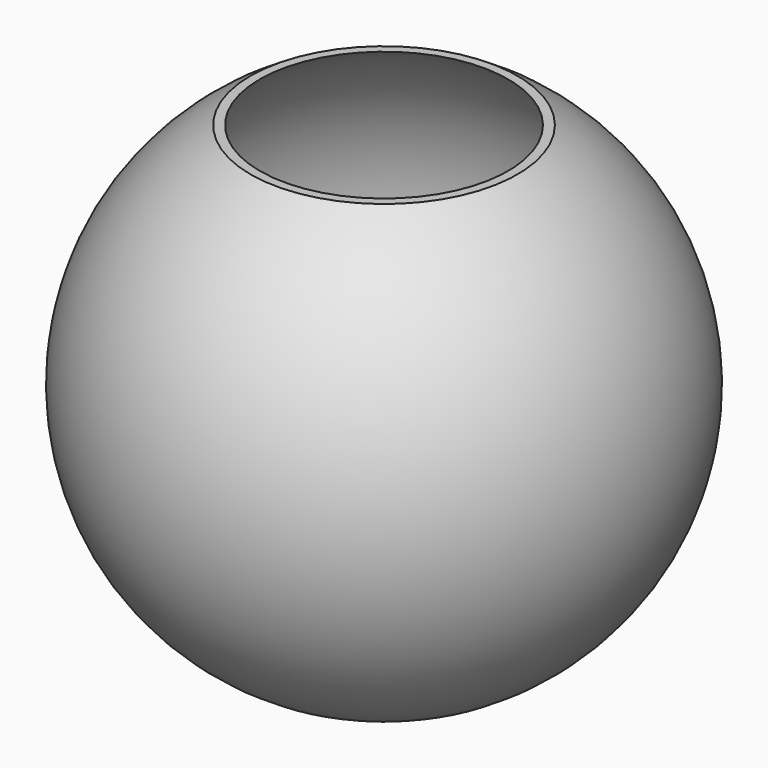
from build123d import *

# Parameters (mm, degrees)
F2_T          = -1.2
F3_R          = 17
F4_DEPTH      = 25
F4_DEPTH_BACK = 25


with BuildPart() as f1:
    # F0 (on Front) → F1 (revolve)
    with BuildSketch(Plane.XZ):
        with BuildLine():
            Line((-16.5, 0), (0, 0))
            Line((0, 0), (0, 127))
            Line((0, 127), (-35, 127))
            ThreePointArc((-35, 127), (-68.5223503683, 57.269382033), (-16.5, 0))
        make_face()
    revolve(axis=Axis((0, 0, 63.5), (0, 0, 1)))

    # F2
    f2_openings = [f1.faces().sort_by_distance(p)[0] for p in [
        (0, 0, 127),
    ]]
    offset(amount=F2_T, openings=f2_openings)

    # F3 (on face) → F4 (cut, two sides)
    with BuildSketch(Plane.XY.offset(1.2)) as f4_sk:
        Circle(F3_R)
    extrude(amount=-F4_DEPTH, mode=Mode.SUBTRACT)
    extrude(f4_sk.sketch, amount=F4_DEPTH_BACK, mode=Mode.SUBTRACT)


solid = f1.part
